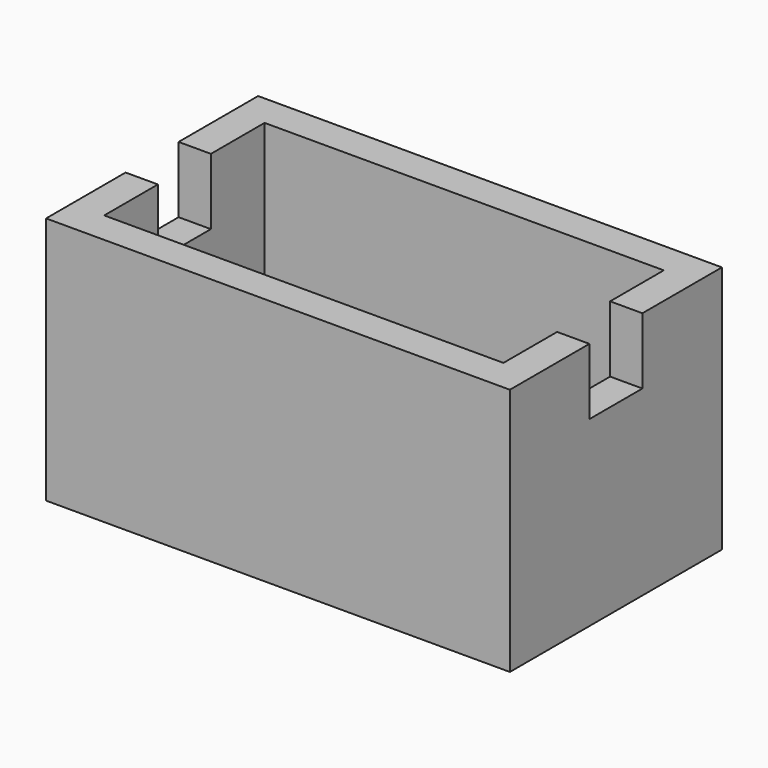
from build123d import *

# Parameters (mm, degrees)
SKETCH013_W     = 28
SKETCH013_H     = 16
SKETCH013_W_2   = 24.1
SKETCH013_H_2   = 12.1
PAD004_DEPTH    = 15
SKETCH014_W     = 30
SKETCH014_H     = 4
POCKET010_DEPTH = 4
SKETCH015_W     = 12.1
SKETCH015_H     = 5
POCKET011_DEPTH = 5


with BuildPart() as part:
    # Sketch013 → Pad004 (new body)
    with BuildSketch(Plane.XY):
        Rectangle(SKETCH013_W, SKETCH013_H)
        Rectangle(SKETCH013_W_2, SKETCH013_H_2, mode=Mode.SUBTRACT)
    extrude(amount=PAD004_DEPTH)

    # Sketch014 → Pocket010 (cut)
    with BuildSketch(Plane.XY.offset(15)):
        Rectangle(SKETCH014_W, SKETCH014_H)
    extrude(amount=-POCKET010_DEPTH, mode=Mode.SUBTRACT)

    # Sketch015 → Pocket011 (cut)
    with BuildSketch(Plane(origin=(-14, 0, 0), x_dir=(0, -1, 0), z_dir=(-1, 0, 0))):
        with Locations((0, 2.5)):
            Rectangle(SKETCH015_W, SKETCH015_H)
    extrude(amount=-POCKET011_DEPTH, mode=Mode.SUBTRACT)


solid = part.part
